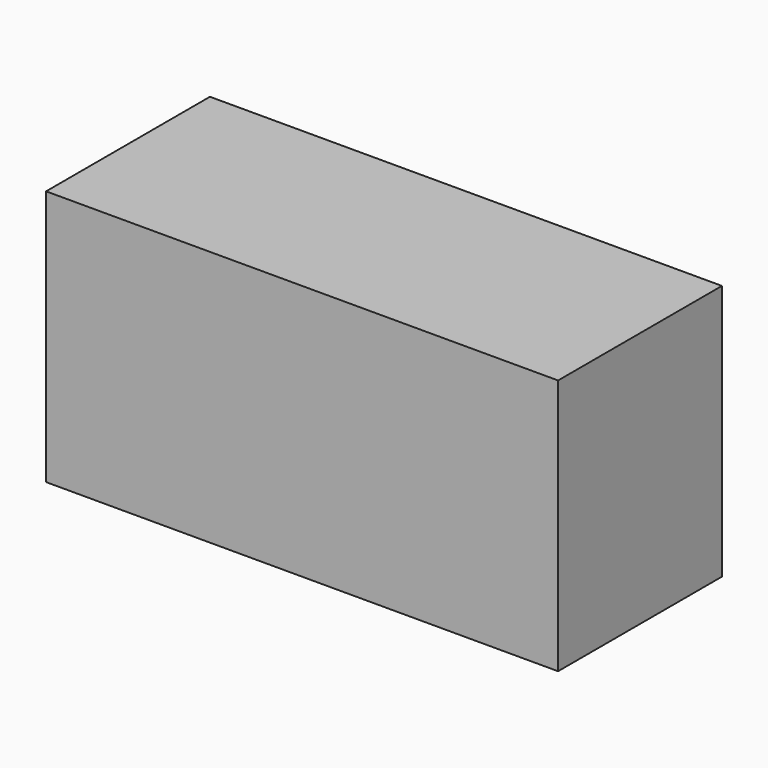
from build123d import *

# Parameters (mm, degrees)
F0_W     = 254
F0_H     = 127
F1_DEPTH = 101.6
F2_T     = -2.54
F3_W     = 248.92
F3_H     = 121.92
F4_DEPTH = 2.54


with BuildPart() as f1:
    # F0 (on Front) → F1 (new body)
    with BuildSketch(Plane.XZ):
        Rectangle(F0_W, F0_H)
    extrude(amount=-F1_DEPTH)

    # F2
    f2_openings = [f1.faces().sort_by_distance(p)[0] for p in [
        (0, 0, 0),
    ]]
    offset(amount=F2_T, openings=f2_openings)

    # F3 (on face) → F4 (join)
    with BuildSketch(Plane.XZ):
        Rectangle(F3_W, F3_H)
    extrude(amount=-F4_DEPTH)


solid = f1.part
